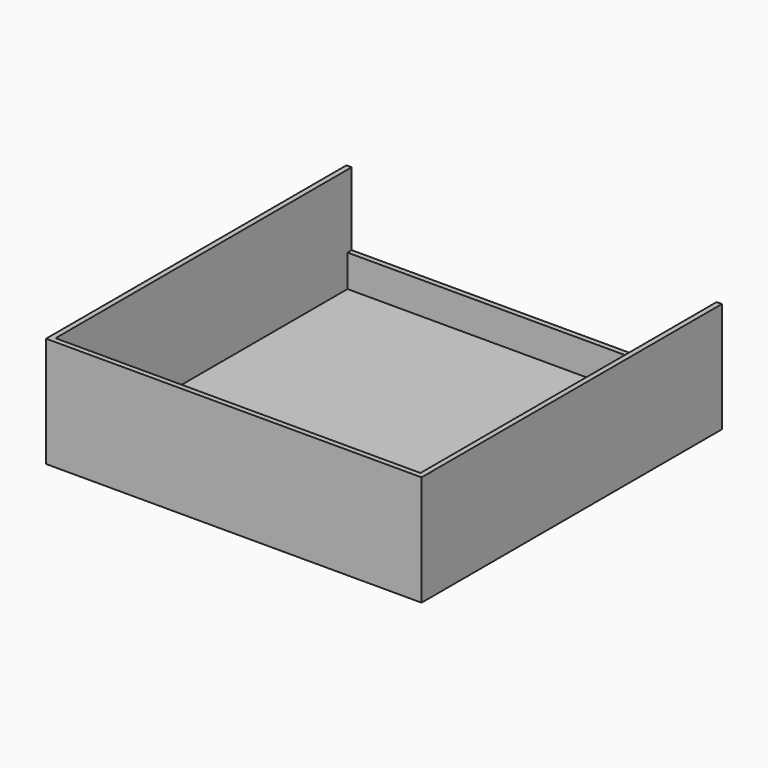
from build123d import *

# Parameters (mm, degrees)
F2_W     = 128.6
F2_H     = 128.6
F2_W_2   = 125
F2_H_2   = 125
F3_DEPTH = 36
F4_DEPTH = 1.8
F5_W     = 125
F5_H     = 1.8
F6_DEPTH = 25


with BuildPart() as f3:
    # F2 (on Top) → F3 (new body)
    with BuildSketch(Plane.XY):
        Rectangle(F2_W, F2_H)
        Rectangle(F2_W_2, F2_H_2, mode=Mode.SUBTRACT)
    extrude(amount=F3_DEPTH)

    # F2 (on Top) → F4 (join)
    with BuildSketch(Plane.XY):
        Rectangle(F2_W, F2_H)
        Rectangle(F2_W_2, F2_H_2, mode=Mode.SUBTRACT)
        Rectangle(F2_W_2, F2_H_2)
    extrude(amount=-F4_DEPTH)

    # F5 (on face) → F6 (cut)
    with BuildSketch(Plane.XY.offset(36)):
        with Locations((0, 63.4)):
            Rectangle(F5_W, F5_H)
    extrude(amount=-F6_DEPTH, mode=Mode.SUBTRACT)


solid = f3.part
